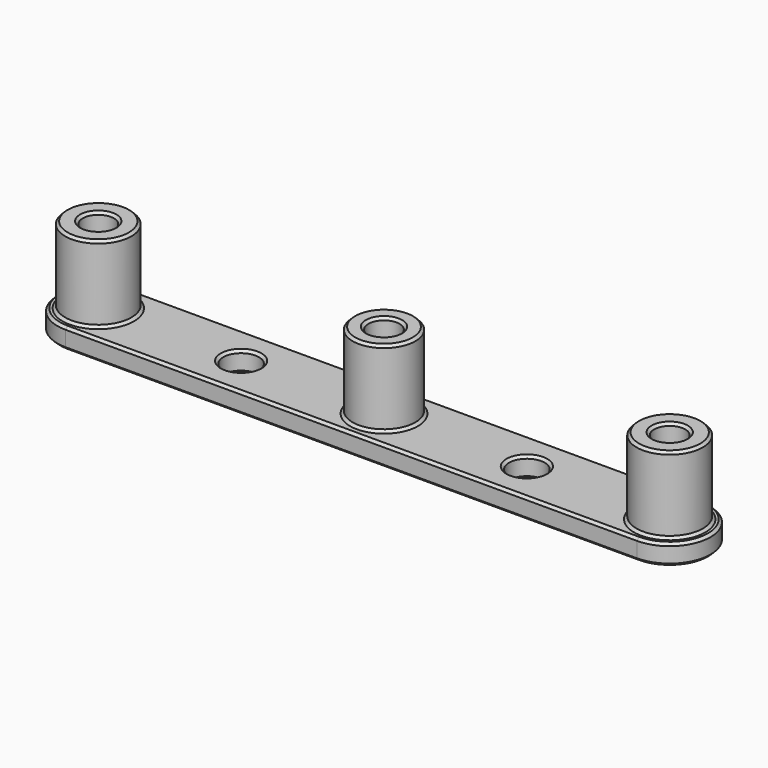
from build123d import *

# Parameters (mm, degrees)
F0_R     = 3.5
F1_DEPTH = 4
F2_R     = 6.5
F2_R_2   = 6.15
F3_DEPTH = 15
F4_R     = 2
F5_DEPTH = 25
F6_R     = 3.05
F7_DEPTH = 6
F8_SIZE  = 0.5


with BuildPart() as f1:
    # F0 (on Top) → F1 (new body)
    with BuildSketch(Plane.XY):
        with BuildLine():
            Line((-56, -8), (56, -8))
            ThreePointArc((56, -8), (64, 0), (56, 8))
            Line((56, 8), (-56, 8))
            ThreePointArc((-56, 8), (-64, 0), (-56, -8))
        make_face()
        with Locations((-28, 0)):
            Circle(F0_R, mode=Mode.SUBTRACT)
        with Locations((28, 0)):
            Circle(F0_R, mode=Mode.SUBTRACT)
    extrude(amount=F1_DEPTH)

    # F2 (on face) → F3 (join)
    with BuildSketch(Plane.XY.offset(4)):
        with Locations((-56, 0)):
            Circle(F2_R)
        with Locations((56, 0)):
            Circle(F2_R)
        Circle(F2_R_2)
    extrude(amount=F3_DEPTH)

    # F4 (on face) → F5 (cut)
    with BuildSketch(Plane.XY.offset(19)):
        with Locations((56, 0)):
            Circle(F4_R)
        Circle(F4_R)
        with Locations((-56, 0)):
            Circle(F4_R)
    extrude(amount=-F5_DEPTH, mode=Mode.SUBTRACT)

    # F6 (on face) → F7 (cut)
    with BuildSketch(Plane.XY.offset(19)):
        with Locations((-56, 0)):
            Circle(F6_R)
        Circle(F6_R)
        with Locations((56, 0)):
            Circle(F6_R)
    extrude(amount=-F7_DEPTH, mode=Mode.SUBTRACT)

    # F8
    f8_edges = [f1.edges().sort_by_distance(p)[0] for p in [
        (-62.5, 0, 19),
        (-59.05, 0, 19),
        (-6.15, 0, 19),
        (-3.05, 0, 19),
        (49.5, 0, 19),
        (52.95, 0, 19),
        (-64, 0, 4),
        (0, 8, 4),
        (0, -8, 4),
        (64, 0, 4),
        (-62.5, 0, 4),
        (-31.5, 0, 4),
        (-6.15, 0, 4),
        (24.5, 0, 4),
        (49.5, 0, 4),
        (-64, 0, 0),
        (0, 8, 0),
        (0, -8, 0),
        (64, 0, 0),
        (-58, 0, 0),
        (-31.5, 0, 0),
        (-2, 0, 0),
        (24.5, 0, 0),
        (54, 0, 0),
        (-58, 0, 13),
        (-2, 0, 13),
        (54, 0, 13),
    ]]
    chamfer(f8_edges, length=F8_SIZE)


solid = f1.part
